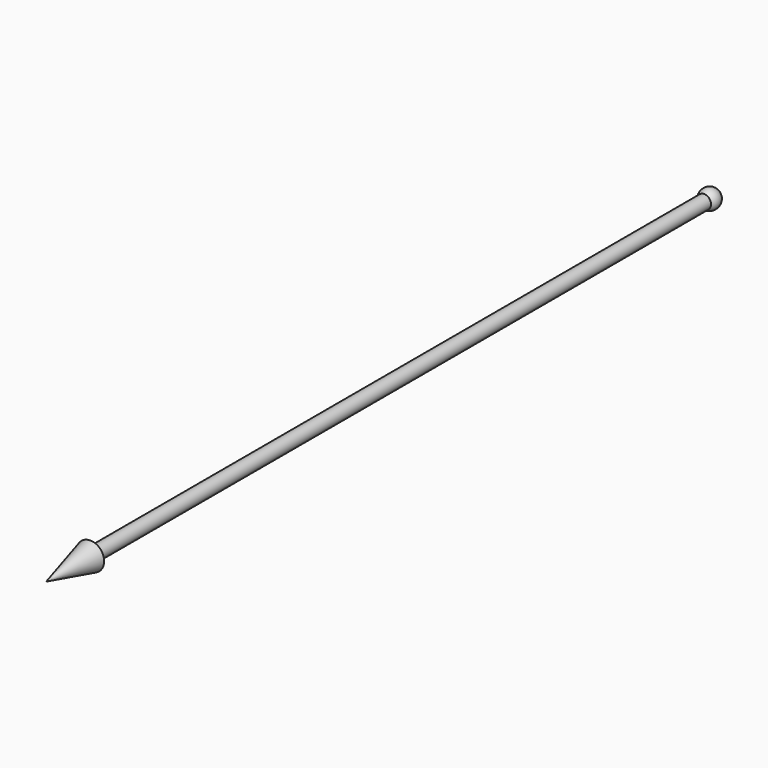
from build123d import *

# Parameters (mm, degrees)
CYLINDER002_R             = 25
CYLINDER002_DEPTH         = 2800
FUSION002_PLACEMENT_ANGLE = 90


with BuildPart() as sphere002:
    # Sphere002 → Sphere002 (revolve)
    with BuildSketch(Plane.XZ):
        with BuildLine():
            ThreePointArc((0, -35), (35, 0), (0, 35))
            Line((0, 35), (0, -35))
        make_face()
    revolve(axis=Axis((0, 0, 0), (0, 0, 1)))


with BuildPart() as cone002:
    # Cone002 → Cone002 (revolve)
    with BuildSketch(Plane(origin=(2800, 0, 0), x_dir=(0, 0, -1), z_dir=(0, -1, 0))):
        Polygon((0, 0), (50, 0), (0, 200), align=None)
    revolve(axis=Axis((2800, 0, 0), (1, 0, 0)))


with BuildPart() as long:
    # Cylinder002 → Cylinder002 (new body)
    with BuildSketch(Plane(origin=(0, 0, 0), x_dir=(0, 0, -1), z_dir=(1, 0, 0))):
        Circle(CYLINDER002_R)
    extrude(amount=CYLINDER002_DEPTH)

    # Fusion002: union Sphere002, Cone002
    add(sphere002.part)
    add(cone002.part)


with BuildPart() as long_1:
    # Fusion002 placement: moved
    add(long.part.rotate(Axis((0, 0, 0), (0, 0, -1)), FUSION002_PLACEMENT_ANGLE))


solid = long_1.part
